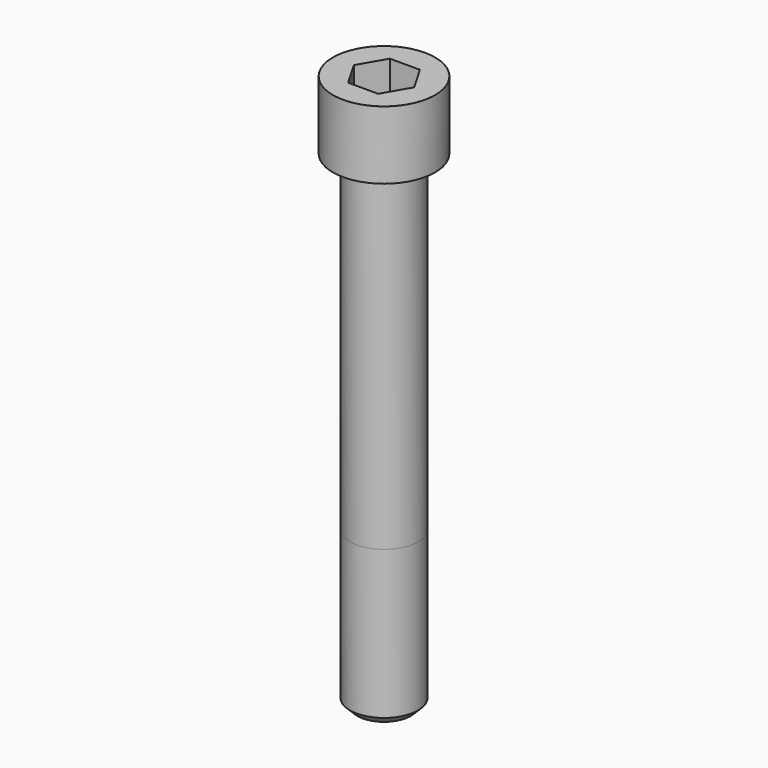
from build123d import *

# Parameters (mm, degrees)
POCKET_DEPTH = 32.15


with BuildPart() as part:
    # Sketch → Revolve (revolve)
    with BuildSketch(Plane.YZ):
        with BuildLine():
            Line((20.999, 0), (31.5, 0))
            Line((31.5, 0), (31.5, 41.97229))
            ThreePointArc((31.5, 41.97229), (31.491884, 41.991884), (31.47229, 42))
            Line((31.47229, 42), (0, 42))
            Line((0, -300), (0, 42))
            Line((16.5, -300), (0, -300))
            Line((21, -295.5), (16.5, -300))
            Line((21, -204), (21, -295.5))
            Line((20.999, 0), (21, -204))
        make_face()
    revolve(axis=Axis((0, 0, 0), (0, 0, 1)))

    # Sketch001 → Pocket (cut)
    with BuildSketch(Plane.XY.offset(42)):
        Polygon((18.561811, 0), (9.280906, 16.075), (-9.280906, 16.075), (-18.561811, 0), (-9.280906, -16.075), (9.280906, -16.075), align=None)
    extrude(amount=-POCKET_DEPTH, mode=Mode.SUBTRACT)


solid = part.part
